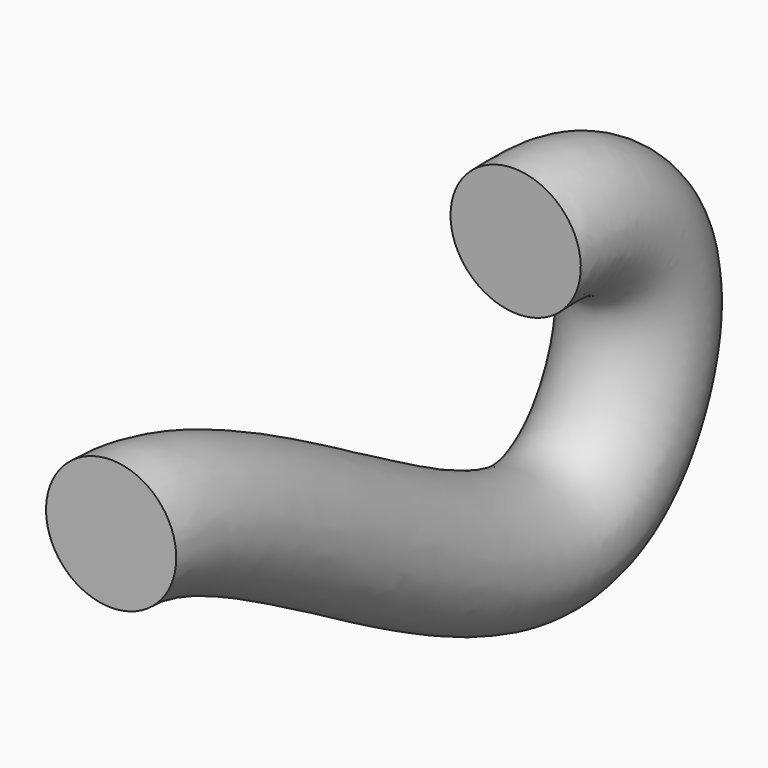
from build123d import *

# Parameters (mm, degrees)
F0_R = 19.8241626397


with BuildPart() as f2:
    # F2: sweep along a path in F1
    with BuildLine(Plane.YZ) as f2_path:
        add(Plane.YZ * Edge.make_bspline(
            [(0, 0), (46.2832674384, 0), (158.1866360524, -99.8857199731), (203.8652641626, -35.4618119564), (200.2041659726, 1.8411523409), (175.232523126, 16.6333859541), (160.8398402813, 16.0642055666), (153.9764851332, 15.8270560205)],
            knots=[0, 0, 0, 0, 0.3677971596, 0.5682118251, 0.7311384705, 0.8720444312, 1, 1, 1, 1], degree=3))
    # F0 (on Front) → F2 (sweep)
    with BuildSketch(Plane.XZ):
        Circle(F0_R)
    sweep(path=f2_path.line)


solid = f2.part
